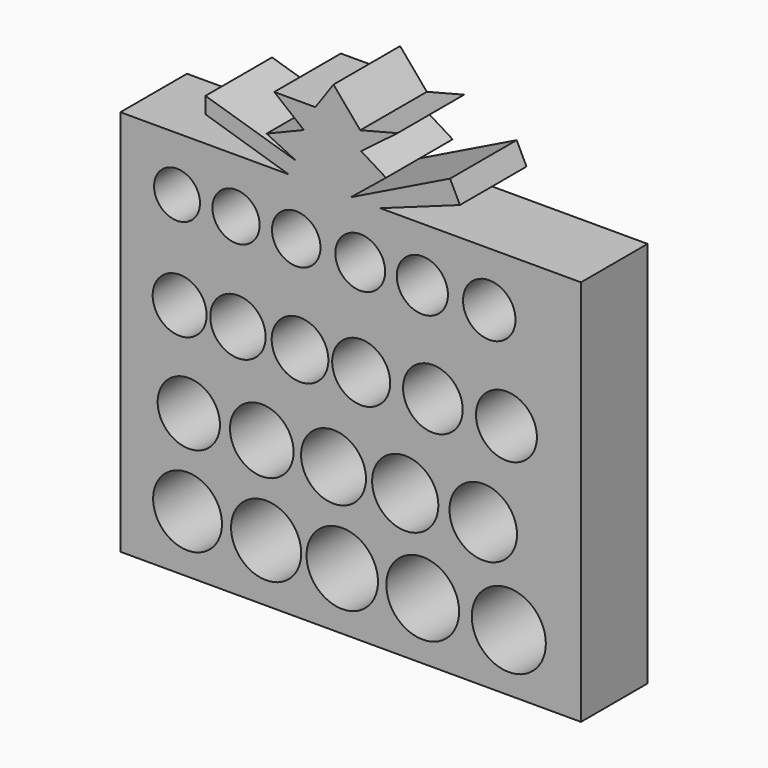
from build123d import *

# Parameters (mm, degrees)
F0_R     = 10.5
F0_R_2   = 10.7
F0_R_3   = 10.9
F0_R_4   = 9.5
F0_R_5   = 8.225
F0_R_6   = 9.7
F0_R_7   = 9.9
F0_R_8   = 8.45
F0_R_9   = 8.65
F0_R_10  = 11.1
F0_R_11  = 11.3
F0_R_12  = 10.1
F0_R_13  = 8.85
F0_R_14  = 9.1
F0_R_15  = 10.3
F0_R_16  = 9.3
F0_R_17  = 7
F0_R_18  = 7.2
F0_R_19  = 7.4
F0_R_20  = 7.6
F0_R_21  = 7.8
F0_R_22  = 8
F1_DEPTH = 25.4


with BuildPart() as f1:
    # F0 (on Front) → F1 (new body)
    with BuildSketch(Plane.XZ):
        Polygon((-18.654427, 46.781804), (-69.954097, 46.781804), (-69.954097, -71.265735), (70.537053, -71.265735), (70.537053, 46.781804), (9.327213, 46.781804), (33.60655, 55.526067), (30.604916, 61.647046), (0.291478, 46.781804), (11.076065, 55.526067), (3.497706, 60.189672), (14.573772, 68.64246), (3.206231, 65.727703), (-4.955082, 75.346395), (-10.493115, 67.476556), (-23.026558, 67.476556), (-13.99082, 60.189672), (-25.35836, 55.526067), (-16.322623, 51.153935), (-44.012789, 59.60672), (-44.012789, 54.65164), align=None)
        with Locations((-49.471106, -53.752262)):
            Circle(F0_R, mode=Mode.SUBTRACT)
        with Locations((-25.496647, -53.752262)):
            Circle(F0_R_2, mode=Mode.SUBTRACT)
        with Locations((-2.283281, -53.752262)):
            Circle(F0_R_3, mode=Mode.SUBTRACT)
        with Locations((-49.090561, -27.304245)):
            Circle(F0_R_4, mode=Mode.SUBTRACT)
        with Locations((-51.882625, 0.810755)):
            Circle(F0_R_5, mode=Mode.SUBTRACT)
        with Locations((-26.828561, -27.304245)):
            Circle(F0_R_6, mode=Mode.SUBTRACT)
        with Locations((-4.947111, -27.304245)):
            Circle(F0_R_7, mode=Mode.SUBTRACT)
        with Locations((-34.102622, 0.810755)):
            Circle(F0_R_8, mode=Mode.SUBTRACT)
        with Locations((-15.156722, 0.810755)):
            Circle(F0_R_9, mode=Mode.SUBTRACT)
        with Locations((22.261996, -53.752262)):
            Circle(F0_R_10, mode=Mode.SUBTRACT)
        with Locations((48.519738, -53.752262)):
            Circle(F0_R_11, mode=Mode.SUBTRACT)
        with Locations((16.934341, -27.304245)):
            Circle(F0_R_12, mode=Mode.SUBTRACT)
        with Locations((3.497706, 0.810755)):
            Circle(F0_R_13, mode=Mode.SUBTRACT)
        with Locations((25.35836, 0.810755)):
            Circle(F0_R_14, mode=Mode.SUBTRACT)
        with Locations((40.718522, -27.304245)):
            Circle(F0_R_15, mode=Mode.SUBTRACT)
        with Locations((47.801968, 0.810755)):
            Circle(F0_R_16, mode=Mode.SUBTRACT)
        with Locations((-52.684705, 30.24547)):
            Circle(F0_R_17, mode=Mode.SUBTRACT)
        with Locations((-34.685574, 30.24547)):
            Circle(F0_R_18, mode=Mode.SUBTRACT)
        with Locations((-16.322624, 30.24547)):
            Circle(F0_R_19, mode=Mode.SUBTRACT)
        with Locations((3.206231, 30.24547)):
            Circle(F0_R_20, mode=Mode.SUBTRACT)
        with Locations((22.152131, 30.24547)):
            Circle(F0_R_21, mode=Mode.SUBTRACT)
        with Locations((42.55541, 30.24547)):
            Circle(F0_R_22, mode=Mode.SUBTRACT)
    extrude(amount=F1_DEPTH)


solid = f1.part
